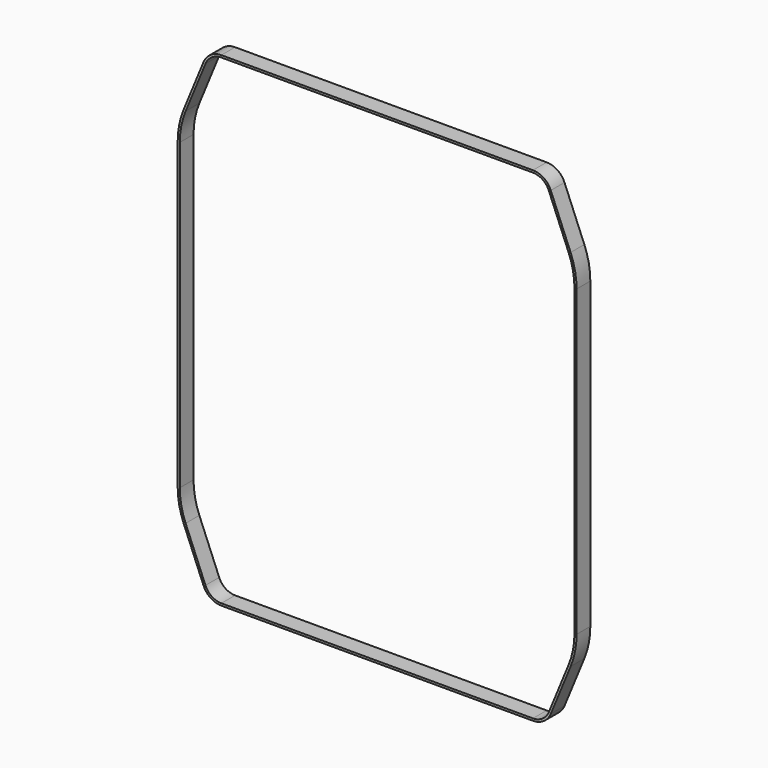
from build123d import *

# Parameters (mm, degrees)
F1_DEPTH = 25.4


with BuildPart() as f1:
    # F0 (on Front) → F1 (new body)
    with BuildSketch(Plane.XZ):
        with BuildLine():
            Line((-514.35, 714.375), (-522.739805, 714.375))
            ThreePointArc((-522.739805, 714.375), (-538.640068, 709.542625), (-549.162481, 696.679926))
            Line((-549.162481, 696.679926), (-578.52656, 625.367164))
            ThreePointArc((-578.52656, 625.367164), (-585.141661, 603.436284), (-587.375, 580.638581))
            Line((-587.375, 580.638581), (-587.375, 577.85))
            Line((-587.375, 577.85), (-587.375, 133.35))
            Line((-587.375, 133.35), (-587.375, 130.561419))
            ThreePointArc((-587.375, 130.561419), (-585.141661, 107.763716), (-578.52656, 85.832836))
            Line((-578.52656, 85.832836), (-549.162481, 14.520074))
            ThreePointArc((-549.162481, 14.520074), (-538.640068, 1.657375), (-522.739805, -3.175))
            Line((-522.739805, -3.175), (-514.35, -3.175))
            Line((-514.35, -3.175), (-69.85, -3.175))
            Line((-69.85, -3.175), (-61.460195, -3.175))
            ThreePointArc((-61.460195, -3.175), (-45.559932, 1.657375), (-35.037519, 14.520074))
            Line((-35.037519, 14.520074), (-5.67344, 85.832836))
            ThreePointArc((-5.67344, 85.832836), (0.941661, 107.763716), (3.175, 130.561419))
            Line((3.175, 130.561419), (3.175, 133.35))
            Line((3.175, 133.35), (3.175, 577.85))
            Line((3.175, 577.85), (3.175, 580.638581))
            ThreePointArc((3.175, 580.638581), (0.941661, 603.436284), (-5.67344, 625.367164))
            Line((-5.67344, 625.367164), (-35.037519, 696.679926))
            ThreePointArc((-35.037519, 696.679926), (-45.559932, 709.542625), (-61.460195, 714.375))
            Line((-61.460195, 714.375), (-69.85, 714.375))
            Line((-69.85, 714.375), (-514.35, 714.375))
        make_face()
        with BuildLine():
            Line((-522.739805, 711.2), (-514.35, 711.2))
            Line((-514.35, 711.2), (-69.85, 711.2))
            Line((-69.85, 711.2), (-61.460195, 711.2))
            ThreePointArc((-61.460195, 711.2), (-47.326628, 706.904556), (-37.973371, 695.471045))
            Line((-37.973371, 695.471045), (-8.609293, 624.158284))
            ThreePointArc((-8.609293, 624.158284), (-2.172979, 602.82013), (0, 580.638581))
            Line((0, 580.638581), (0, 577.85))
            Line((0, 577.85), (0, 133.35))
            Line((0, 133.35), (0, 130.561419))
            ThreePointArc((0, 130.561419), (-2.172979, 108.37987), (-8.609293, 87.041716))
            Line((-8.609293, 87.041716), (-37.973371, 15.728955))
            ThreePointArc((-37.973371, 15.728955), (-47.326628, 4.295444), (-61.460195, 0))
            Line((-61.460195, 0), (-69.85, 0))
            Line((-69.85, 0), (-514.35, 0))
            Line((-514.35, 0), (-522.739805, 0))
            ThreePointArc((-522.739805, 0), (-536.873372, 4.295444), (-546.226629, 15.728955))
            Line((-546.226629, 15.728955), (-575.590707, 87.041716))
            ThreePointArc((-575.590707, 87.041716), (-582.027021, 108.37987), (-584.2, 130.561419))
            Line((-584.2, 130.561419), (-584.2, 133.35))
            Line((-584.2, 133.35), (-584.2, 577.85))
            Line((-584.2, 577.85), (-584.2, 580.638581))
            ThreePointArc((-584.2, 580.638581), (-582.027021, 602.82013), (-575.590707, 624.158284))
            Line((-575.590707, 624.158284), (-546.226629, 695.471045))
            ThreePointArc((-546.226629, 695.471045), (-536.873372, 706.904556), (-522.739805, 711.2))
        make_face(mode=Mode.SUBTRACT)
    extrude(amount=F1_DEPTH)


solid = f1.part
